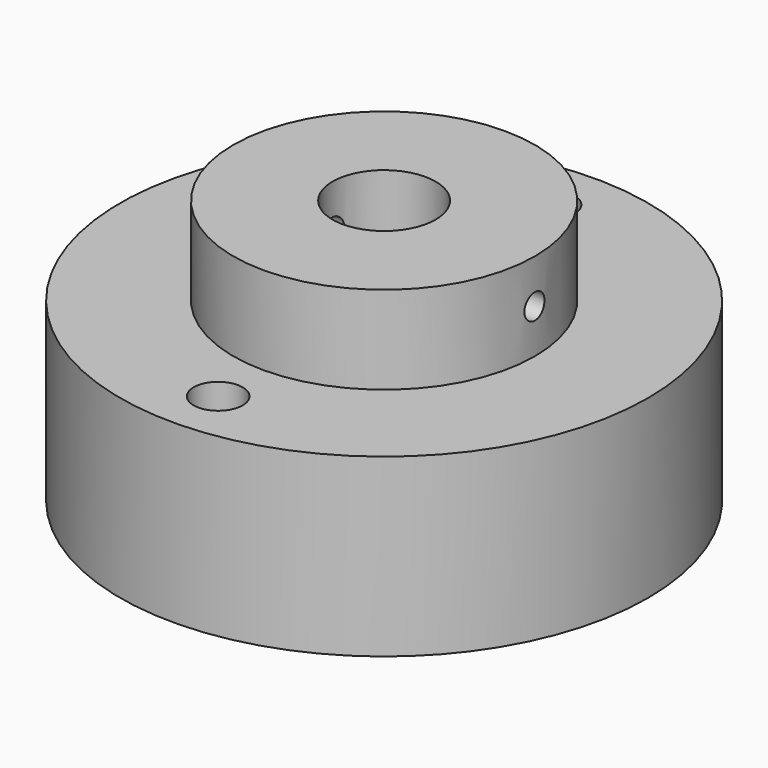
from build123d import *

# Parameters (mm, degrees)
F0_R     = 21
F0_R_2   = 12
F0_R_3   = 4.1
F1_DEPTH = 3
F2_DEPTH = 10
F3_R     = 21
F3_R_2   = 9.3
F4_DEPTH = 11
F5_R     = 1.95
F6_DEPTH = 14
F7_R     = 1
F8_DEPTH = 12.5


with BuildPart() as f1:
    # F0 (on Top) → F1 (new body)
    with BuildSketch(Plane.XY):
        Circle(F0_R)
        Circle(F0_R_2, mode=Mode.SUBTRACT)
        Circle(F0_R_2)
        Circle(F0_R_3, mode=Mode.SUBTRACT)
    extrude(amount=F1_DEPTH)

    # F0 (on Top) → F2 (join)
    with BuildSketch(Plane.XY):
        Circle(F0_R_2)
        Circle(F0_R_3, mode=Mode.SUBTRACT)
    extrude(amount=F2_DEPTH)

    # F3 (on Top) → F4 (join)
    with BuildSketch(Plane.XY):
        Circle(F3_R)
        Circle(F3_R_2, mode=Mode.SUBTRACT)
    extrude(amount=-F4_DEPTH)

    # F5 (on face) → F6 (cut, through all)
    with BuildSketch(Plane.XY.offset(3)):
        with Locations((0, 16.5)):
            Circle(F5_R)
        with Locations((0, -16.5)):
            Circle(F5_R)
    extrude(amount=-F6_DEPTH, mode=Mode.SUBTRACT)

    # F7 (on Right) → F8 (cut, symmetric)
    with BuildSketch(Plane.YZ):
        with Locations((0, 6.5)):
            Circle(F7_R)
    extrude(amount=F8_DEPTH, both=True, mode=Mode.SUBTRACT)


solid = f1.part
